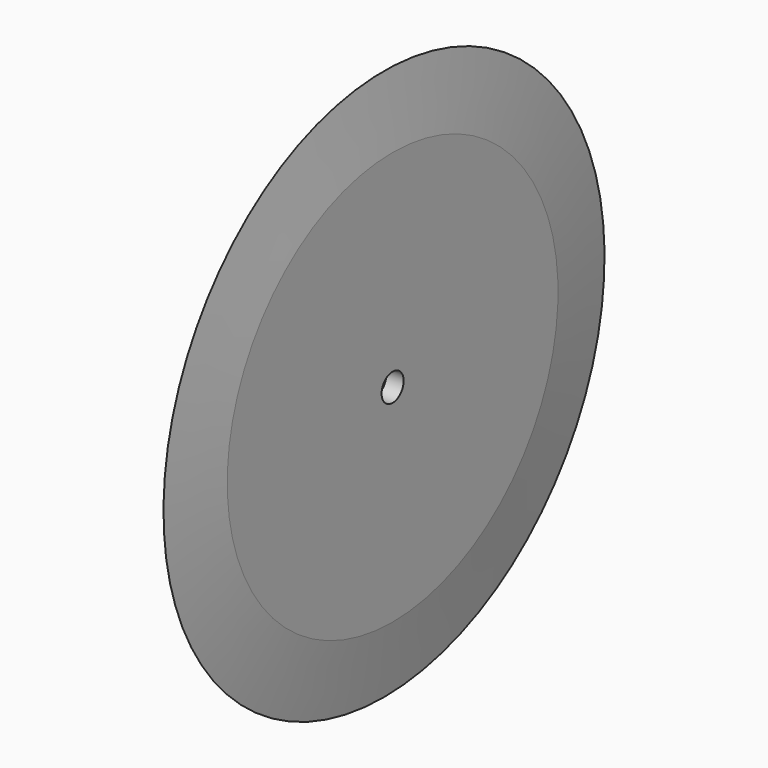
from build123d import *


with BuildPart() as f1:
    # F0 (on Front) → F1 (revolve)
    with BuildSketch(Plane.XZ):
        Polygon((8.852507, -2.54), (5.677507, -2.54), (5.677507, -38.1), (7.265007, -38.1), (8.852507, -38.1), align=None)
        Polygon((7.265007, -50.8), (8.852507, -38.1), (7.265007, -38.1), align=None)
        Polygon((7.265007, -38.1), (5.677507, -38.1), (7.265007, -50.8), align=None)
    revolve(axis=Axis((7.265007, 0, 0), (-1, 0, 0)))


solid = f1.part
